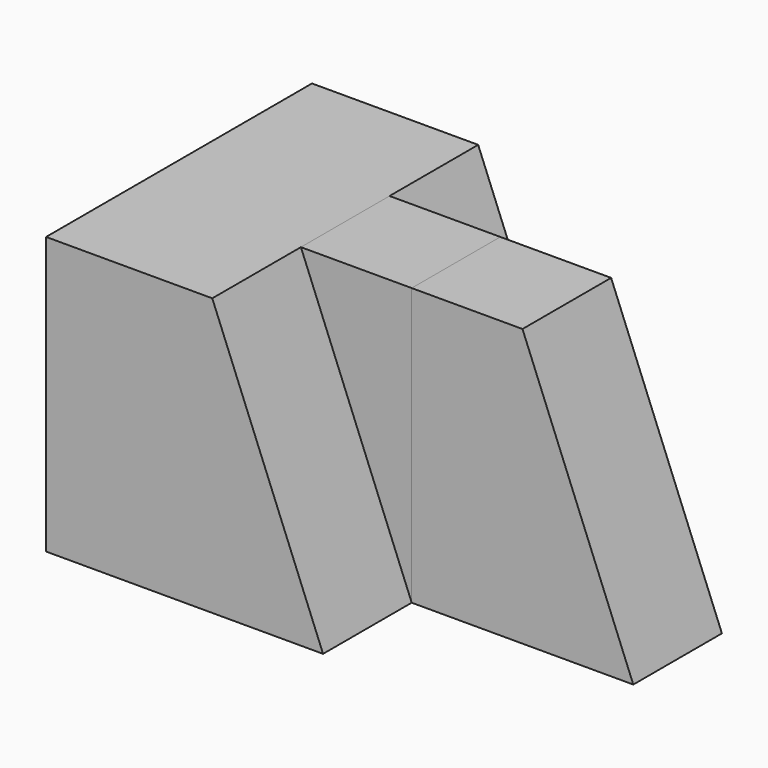
from build123d import *

# Parameters (mm, degrees)
F0_W      = 31.75
F0_H      = 31.75
F1_DEPTH  = 38.1
F2_W      = 12.7
F2_H      = 31.75
F3_DEPTH  = 57.15
F5_DEPTH  = 25.4
F7_DEPTH  = 12.7
F9_DEPTH  = 38.1
F10_W     = 12.7
F10_H     = 12.7
F11_DEPTH = 31.75


with BuildPart() as f1:
    # F0 (on Front) → F1 (new body)
    with BuildSketch(Plane.XZ):
        with Locations((15.875, 15.875)):
            Rectangle(F0_W, F0_H)
    extrude(amount=-F1_DEPTH)

    # F2 (on Right) → F3 (join)
    with BuildSketch(Plane.YZ):
        with Locations((19.05, 15.875)):
            Rectangle(F2_W, F2_H)
    extrude(amount=F3_DEPTH)

    # F4 (on Front) → F5 (cut)
    with BuildSketch(Plane.XZ):
        Polygon((57.15, 31.75), (44.45, 31.75), (57.15, 0), align=None)
    extrude(amount=-F5_DEPTH, mode=Mode.SUBTRACT)

    # F6 (on Front) → F7 (cut)
    with BuildSketch(Plane.XZ):
        Polygon((31.75, 31.75), (19.05, 31.75), (31.75, 0), align=None)
    extrude(amount=-F7_DEPTH, mode=Mode.SUBTRACT)

    # F8 (on Front) → F9 (cut)
    with BuildSketch(Plane.XZ):
        Polygon((19.05, 31.75), (31.75, 0), (31.75, 31.75), align=None)
    extrude(amount=-F9_DEPTH, mode=Mode.SUBTRACT)


with BuildPart() as f11:
    # F10 (on Top) → F11 (new body)
    with BuildSketch(Plane.XY):
        with Locations((25.4, 19.05)):
            Rectangle(F10_W, F10_H)
    extrude(amount=F11_DEPTH)


solid = Compound([f1.part, f11.part])
